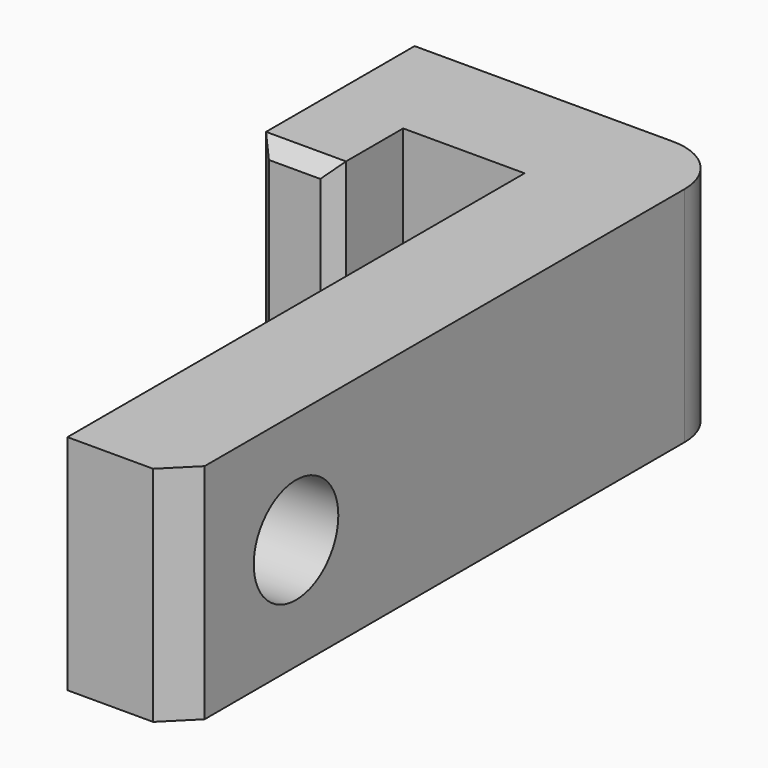
from build123d import *

# Parameters (mm, degrees)
PAD_DEPTH       = 7.8
SKETCH001_R     = 1.85
POCKET_DEPTH    = 5
CHAMFER_SIZE    = 0.5
CHAMFER001_SIZE = 1
FILLET_R        = 2


with BuildPart() as part:
    # Sketch → Pad (new body)
    with BuildSketch(Plane.XY):
        Polygon((-16.794462, -6.264032), (-19.594462, -6.264032), (-19.594462, 0.735968), (-8.544462, 0.735968), (-8.544462, -23.264032), (-12.544462, -23.264032), (-12.544462, -3.264032), (-16.794462, -3.264032), align=None)
    extrude(amount=PAD_DEPTH)

    # Sketch001 (on Face4 of Pad) → Pocket (cut)
    with BuildSketch(Plane.YZ.offset(-8.544462)):
        with Locations((-18.264032, 3.9)):
            Circle(SKETCH001_R)
    extrude(amount=-POCKET_DEPTH, mode=Mode.SUBTRACT)

    # Chamfer
    chamfer_edges = [part.edges().sort_by_distance(p)[0] for p in [
        (-16.794462, -6.264032, 3.9),
        (-18.194462, -6.264032, 0),
        (-19.594462, -6.264032, 3.9),
        (-18.194462, -6.264032, 7.8),
    ]]
    chamfer(chamfer_edges, length=CHAMFER_SIZE)

    # Chamfer001
    chamfer001_edges = [part.edges().sort_by_distance(p)[0] for p in [
        (-8.544462, -23.264032, 3.9),
    ]]
    chamfer(chamfer001_edges, length=CHAMFER001_SIZE)

    # Fillet
    fillet_edges = [part.edges().sort_by_distance(p)[0] for p in [
        (-8.544462, 0.735968, 3.9),
    ]]
    fillet(fillet_edges, radius=FILLET_R)


solid = part.part
